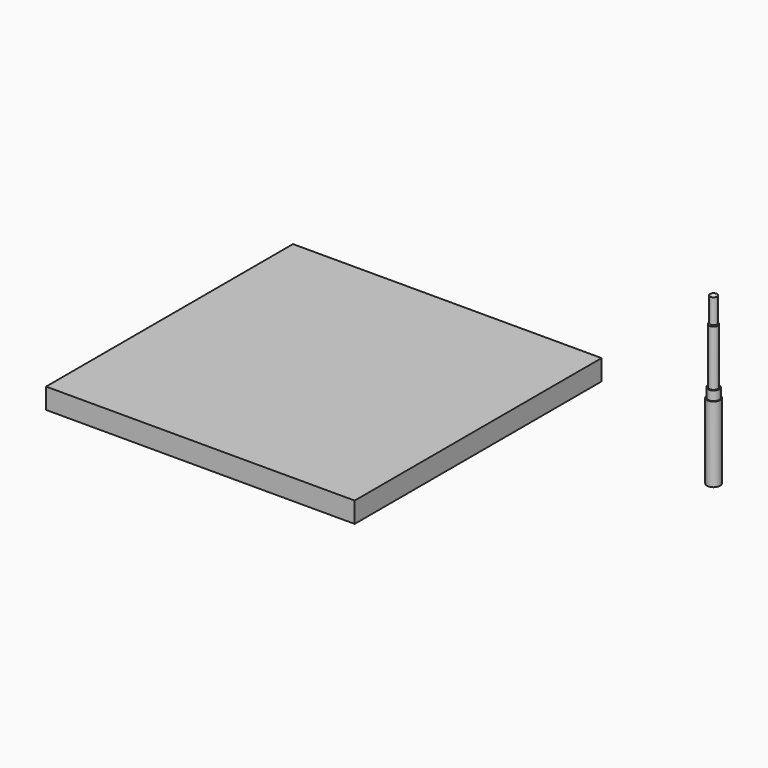
from build123d import *

# Parameters (mm, degrees)
F2_W      = 300
F2_H      = 300
F3_DEPTH  = 20
F1_FACE_R = 6.35
F4_DEPTH  = 13


with BuildPart() as f1:
    # F0 (on Front) → F1 (revolve)
    with BuildSketch(Plane.XZ):
        Polygon((3.5, 106.345052), (0, 108.345052), (0, -41.654948), (6.35, -41.654948), (6.35, 18.645052), (5.5, 18.645052), (5.5, 27.645052), (4.3, 27.645052), (4.3, 81.645052), (3.5, 82.645052), align=None)
    revolve(axis=Axis((0, 0, 33.345052), (0, 0, -1)))

    # F1_face (on face) → F4 (join)
    with BuildSketch(Plane(origin=(0, 0, -41.654948), x_dir=(1, 0, 0), z_dir=(0, 0, -1))):
        Circle(F1_FACE_R)
    extrude(amount=F4_DEPTH)


with BuildPart() as f3:
    # F2 (on Top) → F3 (new body)
    with BuildSketch(Plane.XY):
        with Locations((-255.512939, -154.201523)):
            Rectangle(F2_W, F2_H)
    extrude(amount=F3_DEPTH)


solid = Compound([f1.part, f3.part])
